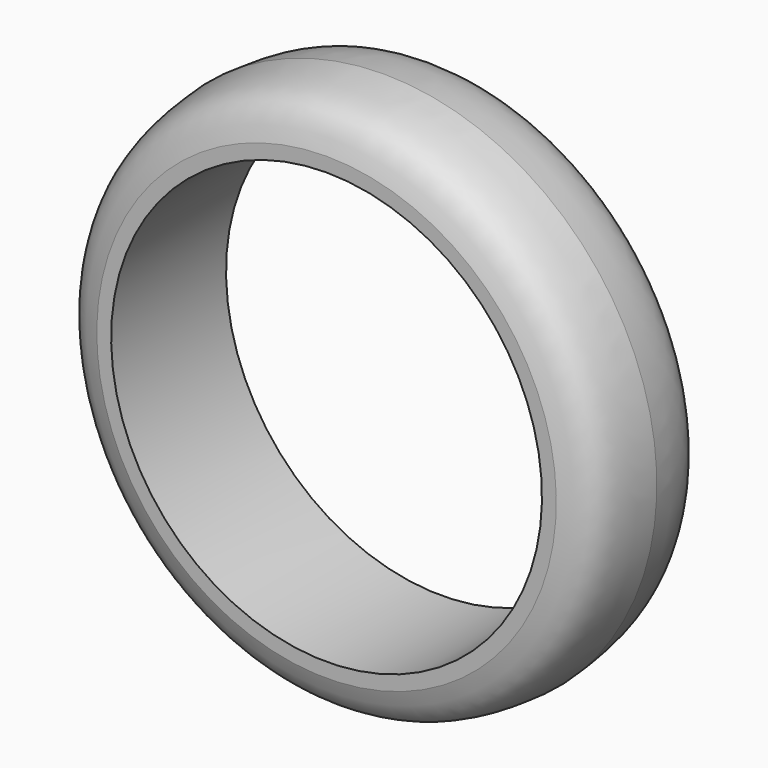
from build123d import *


with BuildPart() as f2:
    # F0 (on Right) → F2 (revolve)
    with BuildSketch(Plane.YZ):
        with BuildLine():
            Line((-2.5, 7.5), (0, 7.5))
            Line((0, 7.5), (2.5, 7.5))
            Line((2.5, 7.5), (2.5, 8))
            add(Edge.make_bspline(
                [(2.5, 8), (2.3886054705, 8.3967326532), (2.1313088257, 9.3130970468), (0.7712386463, 9.4323670137), (0, 9.5)],
                knots=[0, 0, 0, 0, 0.4329420217, 1, 1, 1, 1], degree=3))
            add(Edge.make_bspline(
                [(-2.5, 8), (-2.3886054705, 8.3967326532), (-2.1313088257, 9.3130970468), (-0.7712386463, 9.4323670137), (0, 9.5)],
                knots=[0, 0, 0, 0, 0.4329420217, 1, 1, 1, 1], degree=3))
            Line((-2.5, 8), (-2.5, 7.5))
        make_face()
    revolve(axis=Axis((0, 0, 0), (0, -1, 0)))


with BuildPart() as f3_1:
    # F3: copy of F2
    add(f2.part)


solid = Compound([f2.part, f3_1.part])
